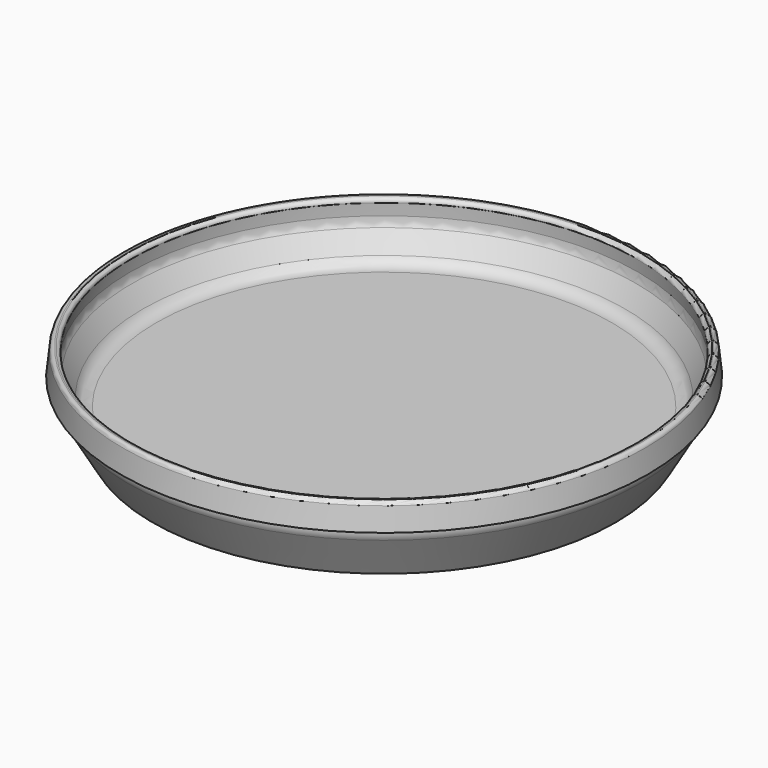
from build123d import *


with BuildPart() as f1:
    # F0 (on Front) → F1 (revolve)
    with BuildSketch(Plane.XZ):
        with BuildLine():
            Line((0, 9), (0, 6))
            Line((0, 6), (69.180679, 6))
            ThreePointArc((69.180679, 6), (71.666403, 5.376668), (73.563878, 3.654183))
            Line((73.563878, 3.654183), (76, 0))
            Line((76, 0), (79, 0))
            Line((79, 0), (87.294229, 14.366025))
            ThreePointArc((87.294229, 14.366025), (87.820499, 15.636554), (88, 17))
            Line((88, 17), (88, 18))
            Line((88, 18), (90, 18))
            Line((90, 18), (89.189949, 25.707122))
            ThreePointArc((89.189949, 25.707122), (88.715187, 26.581524), (87.761183, 26.864113))
            Line((87.761183, 26.864113), (87.363375, 26.822302))
            ThreePointArc((87.363375, 26.822302), (86.488972, 26.34754), (86.206383, 25.393536))
            Line((86.206383, 25.393536), (86.642036, 21.248573))
            ThreePointArc((86.642036, 21.248573), (86.555777, 19.602654), (85.965123, 18.063948))
            Line((85.965123, 18.063948), (82.252777, 11.633975))
            ThreePointArc((82.252777, 11.633975), (80.324574, 9.705771), (77.690599, 9))
            Line((77.690599, 9), (0, 9))
        make_face()
    revolve(axis=Axis((0, 0, 12.853561), (0, 0, 1)))


solid = f1.part
